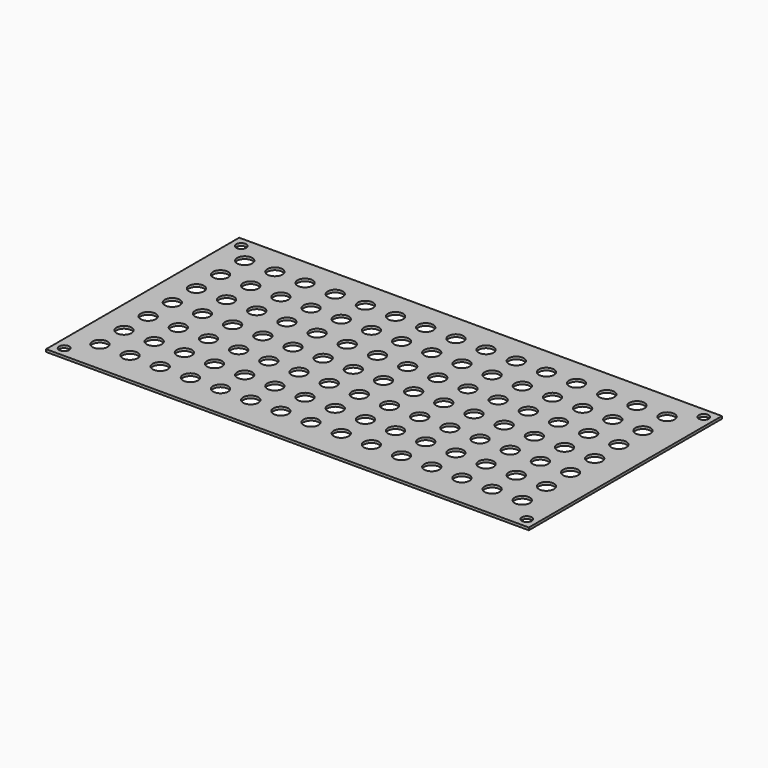
from build123d import *

# Parameters (mm, degrees)
F0_W     = 1219.2
F0_H     = 609.6
F1_DEPTH = 6.35
F2_R     = 19.05
F3_DEPTH = 6.35
F4_R     = 12.7
F5_DEPTH = 6.35


with BuildPart() as f1:
    # F0 (on Top) → F1 (new body)
    with BuildSketch(Plane.XY):
        with Locations((609.6, 304.8)):
            Rectangle(F0_W, F0_H)
    extrude(amount=F1_DEPTH)

    # F2 (on face) → F3 (cut, through all)
    with BuildSketch(Plane.XY.offset(6.35)):
        with Locations((69.85, 539.75)):
            Circle(F2_R)
        with Locations((146.05, 539.75)):
            Circle(F2_R)
        with Locations((222.25, 539.75)):
            Circle(F2_R)
        with Locations((298.45, 539.75)):
            Circle(F2_R)
        with Locations((374.65, 539.75)):
            Circle(F2_R)
        with Locations((450.85, 539.75)):
            Circle(F2_R)
        with Locations((527.05, 539.75)):
            Circle(F2_R)
        with Locations((603.25, 539.75)):
            Circle(F2_R)
        with Locations((679.45, 539.75)):
            Circle(F2_R)
        with Locations((755.65, 539.75)):
            Circle(F2_R)
        with Locations((831.85, 539.75)):
            Circle(F2_R)
        with Locations((908.05, 539.75)):
            Circle(F2_R)
        with Locations((984.25, 539.75)):
            Circle(F2_R)
        with Locations((1060.45, 539.75)):
            Circle(F2_R)
        with Locations((1136.65, 539.75)):
            Circle(F2_R)
        with Locations((69.85, 463.55)):
            Circle(F2_R)
        with Locations((222.25, 463.55)):
            Circle(F2_R)
        with Locations((146.05, 463.55)):
            Circle(F2_R)
        with Locations((298.45, 463.55)):
            Circle(F2_R)
        with Locations((374.65, 463.55)):
            Circle(F2_R)
        with Locations((450.85, 463.55)):
            Circle(F2_R)
        with Locations((527.05, 463.55)):
            Circle(F2_R)
        with Locations((603.25, 463.55)):
            Circle(F2_R)
        with Locations((679.45, 463.55)):
            Circle(F2_R)
        with Locations((755.65, 463.55)):
            Circle(F2_R)
        with Locations((831.85, 463.55)):
            Circle(F2_R)
        with Locations((908.05, 463.55)):
            Circle(F2_R)
        with Locations((984.25, 463.55)):
            Circle(F2_R)
        with Locations((1060.45, 463.55)):
            Circle(F2_R)
        with Locations((1136.65, 463.55)):
            Circle(F2_R)
        with Locations((69.85, 387.35)):
            Circle(F2_R)
        with Locations((222.25, 387.35)):
            Circle(F2_R)
        with Locations((146.05, 387.35)):
            Circle(F2_R)
        with Locations((298.45, 387.35)):
            Circle(F2_R)
        with Locations((374.65, 387.35)):
            Circle(F2_R)
        with Locations((450.85, 387.35)):
            Circle(F2_R)
        with Locations((527.05, 387.35)):
            Circle(F2_R)
        with Locations((603.25, 387.35)):
            Circle(F2_R)
        with Locations((679.45, 387.35)):
            Circle(F2_R)
        with Locations((755.65, 387.35)):
            Circle(F2_R)
        with Locations((831.85, 387.35)):
            Circle(F2_R)
        with Locations((908.05, 387.35)):
            Circle(F2_R)
        with Locations((984.25, 387.35)):
            Circle(F2_R)
        with Locations((1060.45, 387.35)):
            Circle(F2_R)
        with Locations((1136.65, 387.35)):
            Circle(F2_R)
        with Locations((69.85, 311.15)):
            Circle(F2_R)
        with Locations((222.25, 311.15)):
            Circle(F2_R)
        with Locations((146.05, 311.15)):
            Circle(F2_R)
        with Locations((298.45, 311.15)):
            Circle(F2_R)
        with Locations((374.65, 311.15)):
            Circle(F2_R)
        with Locations((450.85, 311.15)):
            Circle(F2_R)
        with Locations((527.05, 311.15)):
            Circle(F2_R)
        with Locations((603.25, 311.15)):
            Circle(F2_R)
        with Locations((679.45, 311.15)):
            Circle(F2_R)
        with Locations((755.65, 311.15)):
            Circle(F2_R)
        with Locations((831.85, 311.15)):
            Circle(F2_R)
        with Locations((908.05, 311.15)):
            Circle(F2_R)
        with Locations((984.25, 311.15)):
            Circle(F2_R)
        with Locations((1060.45, 311.15)):
            Circle(F2_R)
        with Locations((1136.65, 311.15)):
            Circle(F2_R)
        with Locations((69.85, 234.95)):
            Circle(F2_R)
        with Locations((222.25, 234.95)):
            Circle(F2_R)
        with Locations((146.05, 234.95)):
            Circle(F2_R)
        with Locations((298.45, 234.95)):
            Circle(F2_R)
        with Locations((374.65, 234.95)):
            Circle(F2_R)
        with Locations((450.85, 234.95)):
            Circle(F2_R)
        with Locations((527.05, 234.95)):
            Circle(F2_R)
        with Locations((603.25, 234.95)):
            Circle(F2_R)
        with Locations((679.45, 234.95)):
            Circle(F2_R)
        with Locations((755.65, 234.95)):
            Circle(F2_R)
        with Locations((831.85, 234.95)):
            Circle(F2_R)
        with Locations((908.05, 234.95)):
            Circle(F2_R)
        with Locations((984.25, 234.95)):
            Circle(F2_R)
        with Locations((1060.45, 234.95)):
            Circle(F2_R)
        with Locations((1136.65, 234.95)):
            Circle(F2_R)
        with Locations((69.85, 158.75)):
            Circle(F2_R)
        with Locations((222.25, 158.75)):
            Circle(F2_R)
        with Locations((146.05, 158.75)):
            Circle(F2_R)
        with Locations((298.45, 158.75)):
            Circle(F2_R)
        with Locations((374.65, 158.75)):
            Circle(F2_R)
        with Locations((450.85, 158.75)):
            Circle(F2_R)
        with Locations((527.05, 158.75)):
            Circle(F2_R)
        with Locations((603.25, 158.75)):
            Circle(F2_R)
        with Locations((679.45, 158.75)):
            Circle(F2_R)
        with Locations((755.65, 158.75)):
            Circle(F2_R)
        with Locations((831.85, 158.75)):
            Circle(F2_R)
        with Locations((908.05, 158.75)):
            Circle(F2_R)
        with Locations((984.25, 158.75)):
            Circle(F2_R)
        with Locations((1060.45, 158.75)):
            Circle(F2_R)
        with Locations((1136.65, 158.75)):
            Circle(F2_R)
        with Locations((69.85, 82.55)):
            Circle(F2_R)
        with Locations((222.25, 82.55)):
            Circle(F2_R)
        with Locations((146.05, 82.55)):
            Circle(F2_R)
        with Locations((298.45, 82.55)):
            Circle(F2_R)
        with Locations((374.65, 82.55)):
            Circle(F2_R)
        with Locations((450.85, 82.55)):
            Circle(F2_R)
        with Locations((527.05, 82.55)):
            Circle(F2_R)
        with Locations((603.25, 82.55)):
            Circle(F2_R)
        with Locations((679.45, 82.55)):
            Circle(F2_R)
        with Locations((755.65, 82.55)):
            Circle(F2_R)
        with Locations((831.85, 82.55)):
            Circle(F2_R)
        with Locations((908.05, 82.55)):
            Circle(F2_R)
        with Locations((984.25, 82.55)):
            Circle(F2_R)
        with Locations((1060.45, 82.55)):
            Circle(F2_R)
        with Locations((1136.65, 82.55)):
            Circle(F2_R)
    extrude(amount=-F3_DEPTH, mode=Mode.SUBTRACT)

    # F4 (on face) → F5 (cut, through all)
    with BuildSketch(Plane.XY.offset(6.35)):
        with Locations((25.4, 584.2)):
            Circle(F4_R)
        with Locations((25.4, 25.4)):
            Circle(F4_R)
        with Locations((1193.8, 25.4)):
            Circle(F4_R)
        with Locations((1193.8, 584.2)):
            Circle(F4_R)
    extrude(amount=-F5_DEPTH, mode=Mode.SUBTRACT)


solid = f1.part
